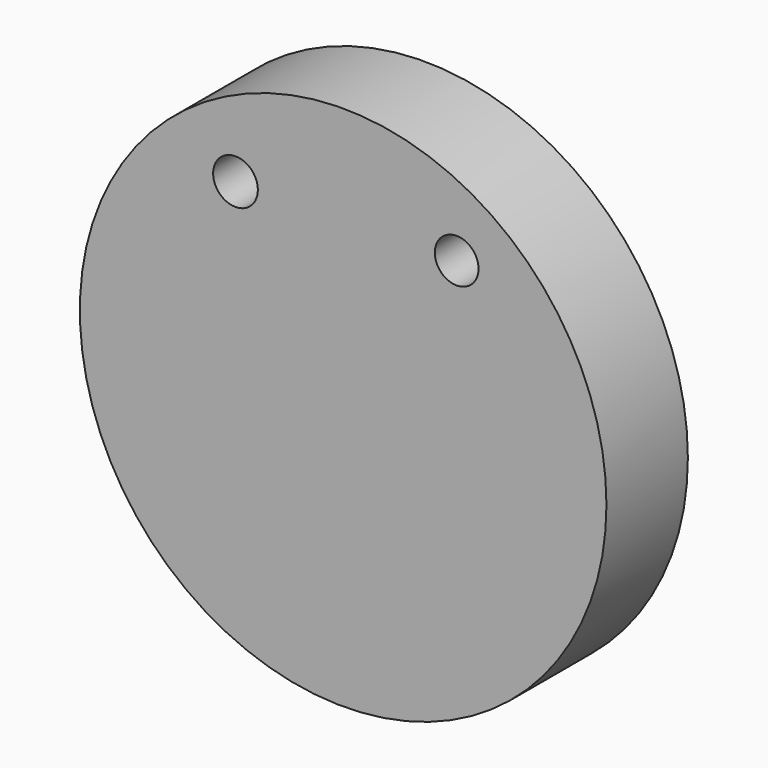
from build123d import *

# Parameters (mm, degrees)
F0_R     = 65.701648
F1_DEPTH = 25.4
F2_R     = 5.578791
F2_R_2   = 5.45515
F3_DEPTH = 25.401


with BuildPart() as f1:
    # F0 (on Front) → F1 (new body)
    with BuildSketch(Plane.XZ):
        Circle(F0_R)
    extrude(amount=F1_DEPTH)

    # F2 (on face) → F3 (cut, through all)
    with BuildSketch(Plane.XZ.offset(25.4)):
        with Locations((-26.864672, 40.881023)):
            Circle(F2_R)
        with Locations((28.324706, 41.46504)):
            Circle(F2_R_2)
    extrude(amount=-F3_DEPTH, mode=Mode.SUBTRACT)


solid = f1.part
